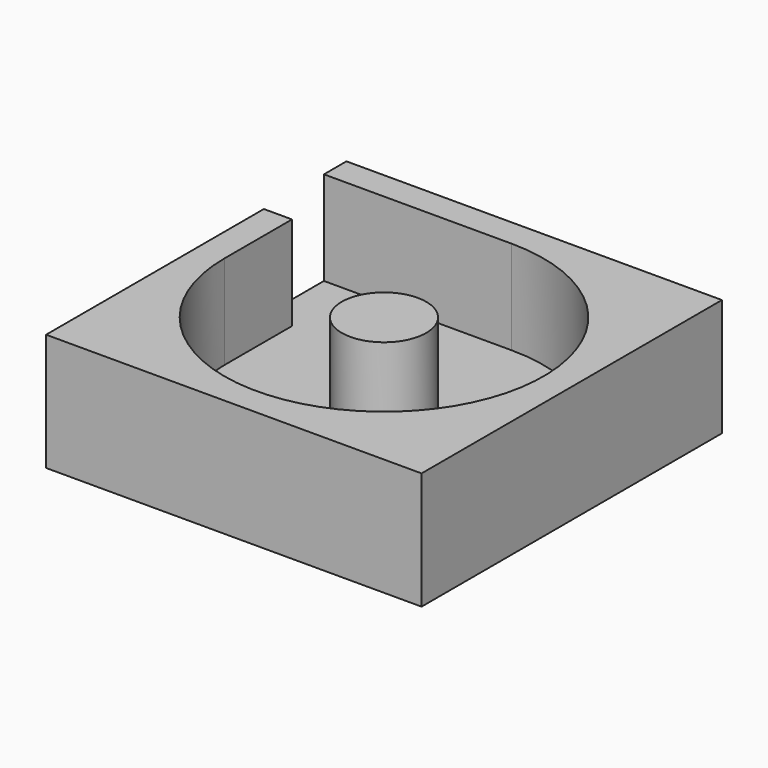
from build123d import *

# Parameters (mm, degrees)
F0_W     = 80
F0_H     = 80
F1_DEPTH = 25
F2_R     = 34
F3_DEPTH = 20
F4_R     = 9
F5_DEPTH = 20
F7_DEPTH = 20
F8_W     = 6
F8_H     = 16
F9_DEPTH = 20


with BuildPart() as f1:
    # F0 (on Top) → F1 (new body)
    with BuildSketch(Plane.XY):
        Rectangle(F0_W, F0_H)
    extrude(amount=F1_DEPTH)

    # F2 (on face) → F3 (cut)
    with BuildSketch(Plane.XY.offset(25)):
        Circle(F2_R)
    extrude(amount=-F3_DEPTH, mode=Mode.SUBTRACT)

    # F4 (on face) → F5 (join)
    with BuildSketch(Plane.XY.offset(5)):
        Circle(F4_R)
    extrude(amount=F5_DEPTH)

    # F6 (on face) → F7 (cut, through all)
    with BuildSketch(Plane.XY.offset(25)):
        with BuildLine():
            Line((-34, 34), (-34, 0))
            Line((-34, 0), (-9, 0))
            ThreePointArc((-9, 0), (-6.363961, 6.363961), (0, 9))
            Line((0, 9), (0, 34))
            Line((0, 34), (-34, 34))
        make_face()
    extrude(amount=-F7_DEPTH, mode=Mode.SUBTRACT)

    # F8 (on face) → F9 (cut, through all)
    with BuildSketch(Plane.XY.offset(25)):
        with Locations((-37, 26)):
            Rectangle(F8_W, F8_H)
    extrude(amount=-F9_DEPTH, mode=Mode.SUBTRACT)


solid = f1.part
